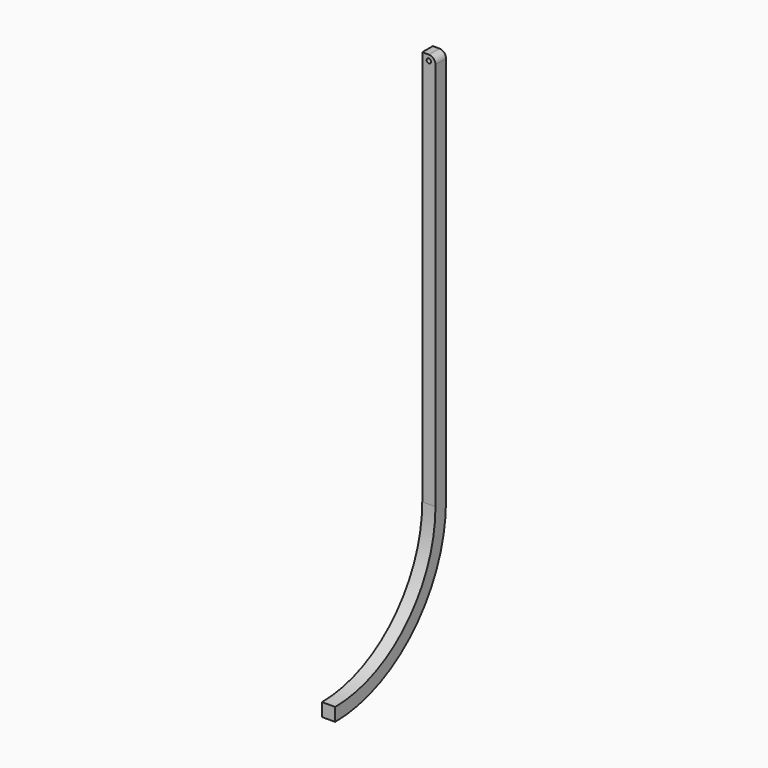
from build123d import *

# Parameters (mm, degrees)
F2_DEPTH = 3
F1_R     = 0.5
F3_DEPTH = 1.5
F4_DEPTH = 1.5
F5_R     = 1.5


with BuildPart() as f2:
    # F0 (on Right) → F2 (new body)
    with BuildSketch(Plane.YZ):
        with BuildLine():
            Line((1.5, 0), (-1.5, 0))
            Line((-1.5, 0), (-1.5, -90))
            ThreePointArc((-1.5, -90), (-9.847457, -110.152543), (-30, -118.5))
            Line((-30, -118.5), (-30, -121.5))
            ThreePointArc((-30, -121.5), (-7.726136, -112.273864), (1.5, -90))
            Line((1.5, -90), (1.5, 0))
        make_face()
    extrude(amount=F2_DEPTH)

    # F1 (on Front) → F3 (cut)
    with BuildSketch(Plane.XZ):
        with Locations((1.5, -1.25)):
            Circle(F1_R)
    extrude(amount=-F3_DEPTH, mode=Mode.SUBTRACT)

    # F1 (on Front) → F4 (cut)
    with BuildSketch(Plane.XZ):
        with Locations((1.5, -1.25)):
            Circle(F1_R)
    extrude(amount=F4_DEPTH, mode=Mode.SUBTRACT)

    # F5
    f5_edges = [f2.edges().sort_by_distance(p)[0] for p in [
        (3, 0, 0),
    ]]
    fillet(f5_edges, radius=F5_R)


solid = f2.part
